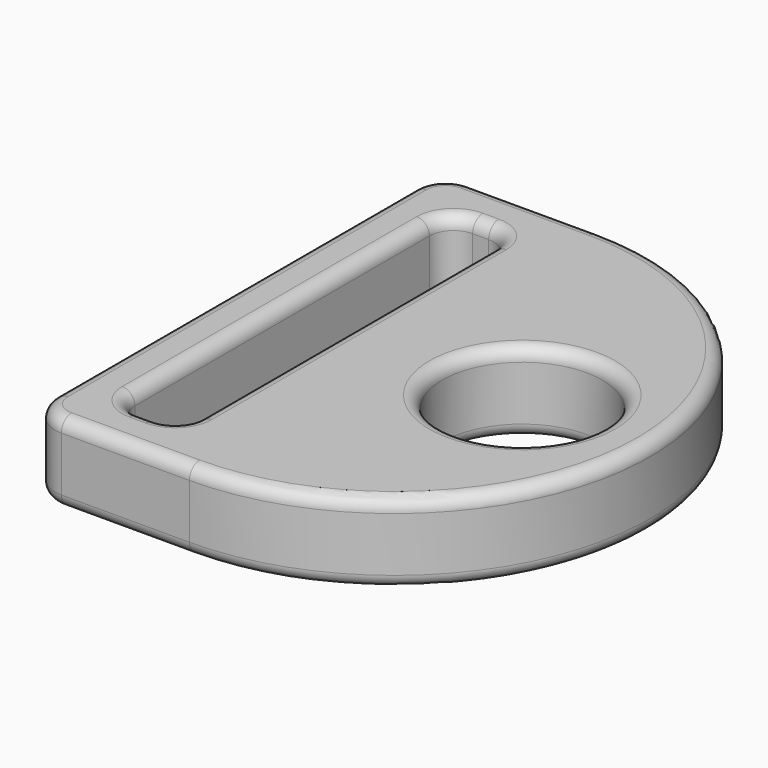
from build123d import *

# Parameters (mm, degrees)
F0_R     = 5
F1_DEPTH = 5
F2_R     = 0.8
F3_R     = 0.8


with BuildPart() as f1:
    # F0 (on Top) → F1 (new body)
    with BuildSketch(Plane.XY):
        with BuildLine():
            Line((5, -16), (5, 16))
            Line((5, 16), (-3, 16))
            ThreePointArc((-3, 16), (-4.414214, 15.414214), (-5, 14))
            Line((-5, 14), (-5, -14))
            ThreePointArc((-5, -14), (-4.414214, -15.414214), (-3, -16))
            Line((-3, -16), (5, -16))
        make_face()
        with BuildLine():
            Line((0.5, -13), (-0.5, -13))
            ThreePointArc((-0.5, -13), (-1.56066, -12.56066), (-2, -11.5))
            Line((-2, -11.5), (-2, 11.5))
            ThreePointArc((-2, 11.5), (-1.56066, 12.56066), (-0.5, 13))
            Line((-0.5, 13), (0.5, 13))
            ThreePointArc((0.5, 13), (1.56066, 12.56066), (2, 11.5))
            Line((2, 11.5), (2, -11.5))
            ThreePointArc((2, -11.5), (1.56066, -12.56066), (0.5, -13))
        make_face(mode=Mode.SUBTRACT)
        with BuildLine():
            ThreePointArc((5, -16), (21, 0), (5, 16))
            Line((5, 16), (5, -16))
        make_face()
        with Locations((13, 0)):
            Circle(F0_R, mode=Mode.SUBTRACT)
    extrude(amount=F1_DEPTH)

    # F2
    f2_edges = [f1.edges().sort_by_distance(p)[0] for p in [
        (-5, 0, 5),
        (21, 0, 0),
    ]]
    fillet(f2_edges, radius=F2_R)

    # F3
    f3_edges = [f1.edges().sort_by_distance(p)[0] for p in [
        (-2, 0, 5),
        (8, 0, 5),
        (2, 0, 0),
        (8, 0, 0),
    ]]
    fillet(f3_edges, radius=F3_R)


solid = f1.part
